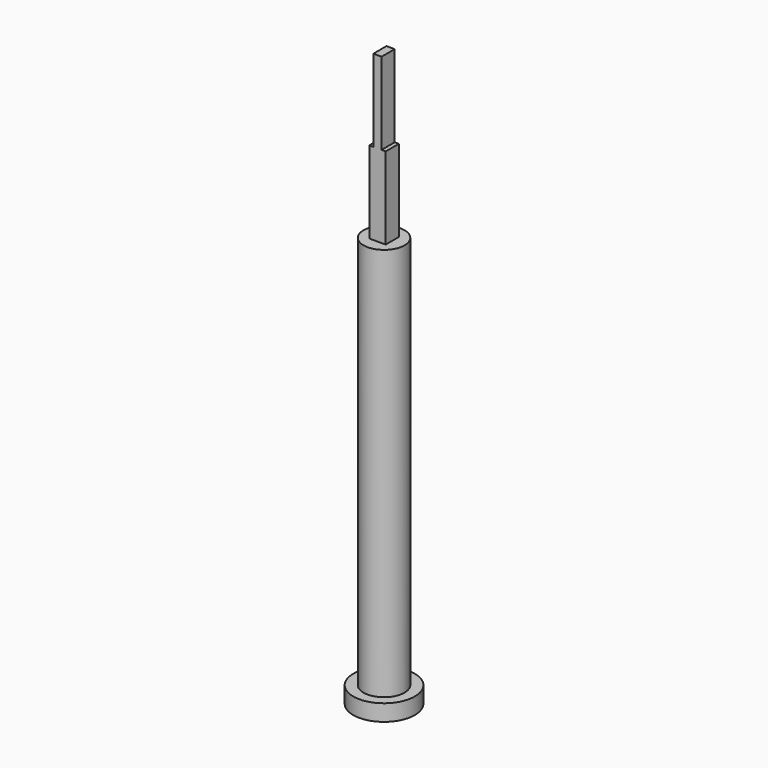
from build123d import *

# Parameters (mm, degrees)
F0_R     = 7.5
F1_DEPTH = 4
F2_R     = 5
F3_DEPTH = 100
F4_W     = 4
F4_H     = 4
F5_DEPTH = 20
F6_W     = 2
F6_H     = 4
F7_DEPTH = 20


with BuildPart() as f1:
    # F0 (on Top) → F1 (new body)
    with BuildSketch(Plane.XY):
        Circle(F0_R)
    extrude(amount=F1_DEPTH)

    # F2 (on Top) → F3 (join)
    with BuildSketch(Plane.XY):
        Circle(F2_R)
    extrude(amount=F3_DEPTH)

    # F4 (on face) → F5 (join)
    with BuildSketch(Plane.XY.offset(100)):
        Rectangle(F4_W, F4_H)
    extrude(amount=F5_DEPTH)

    # F6 (on face) → F7 (join)
    with BuildSketch(Plane.XY.offset(120)):
        Rectangle(F6_W, F6_H)
    extrude(amount=F7_DEPTH)


solid = f1.part
